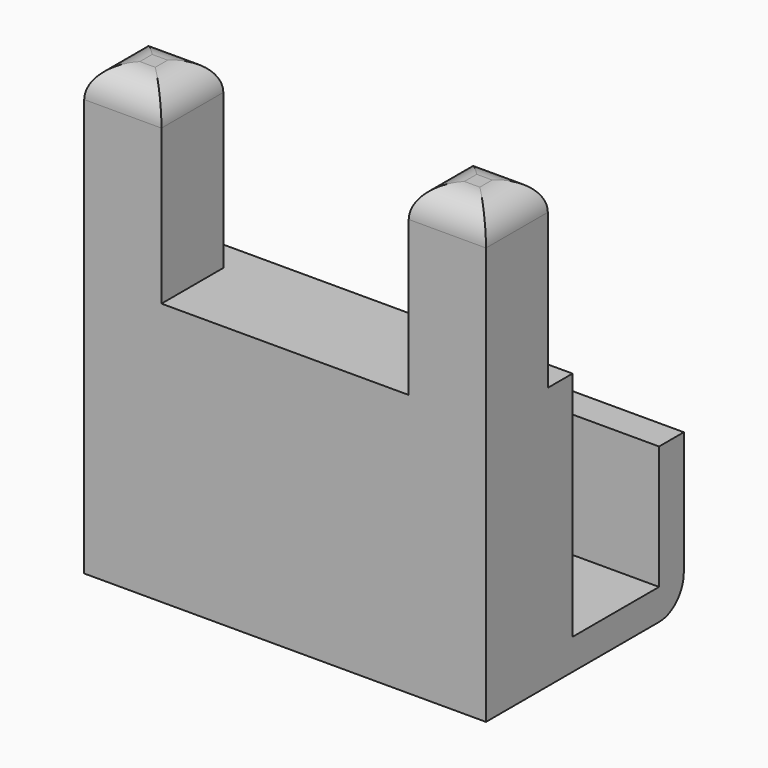
from build123d import *

# Parameters (mm, degrees)
F0_W     = 26
F0_H     = 16
F1_DEPTH = 2
F2_W     = 26
F2_H     = 7
F3_DEPTH = 15
F2_H_2   = 2
F4_DEPTH = 8
F5_W     = 5
F5_H     = 5
F6_DEPTH = 12
F7_R     = 2
F8_R     = 2


with BuildPart() as f1:
    # F0 (on Top) → F1 (new body)
    with BuildSketch(Plane.XY):
        with Locations((-13, 8)):
            Rectangle(F0_W, F0_H)
    extrude(amount=F1_DEPTH)

    # F2 (on face) → F3 (join)
    with BuildSketch(Plane.XY.offset(2)):
        with Locations((-13, 3.5)):
            Rectangle(F2_W, F2_H)
    extrude(amount=F3_DEPTH)

    # F2 (on face) → F4 (join)
    with BuildSketch(Plane.XY.offset(2)):
        with Locations((-13, 15)):
            Rectangle(F2_W, F2_H_2)
    extrude(amount=F4_DEPTH)

    # F5 (on face) → F6 (join)
    with BuildSketch(Plane.XY.offset(17)):
        with Locations((-23.5, 2.5)):
            Rectangle(F5_W, F5_H)
        with Locations((-2.5, 2.5)):
            Rectangle(F5_W, F5_H)
        with Locations((-23.5, 2.5)):
            Rectangle(F5_W, F5_H)
    extrude(amount=F6_DEPTH)

    # F7
    f7_edges = [f1.edges().sort_by_distance(p)[0] for p in [
        (-13, 16, 0),
    ]]
    fillet(f7_edges, radius=F7_R)

    # F8
    f8_edges = [f1.edges().sort_by_distance(p)[0] for p in [
        (-26, 2.5, 29),
        (-23.5, 0, 29),
        (-21, 2.5, 29),
        (-23.5, 5, 29),
        (-2.5, 0, 29),
        (0, 2.5, 29),
        (-2.5, 5, 29),
        (-5, 2.5, 29),
    ]]
    fillet(f8_edges, radius=F8_R)


solid = f1.part
